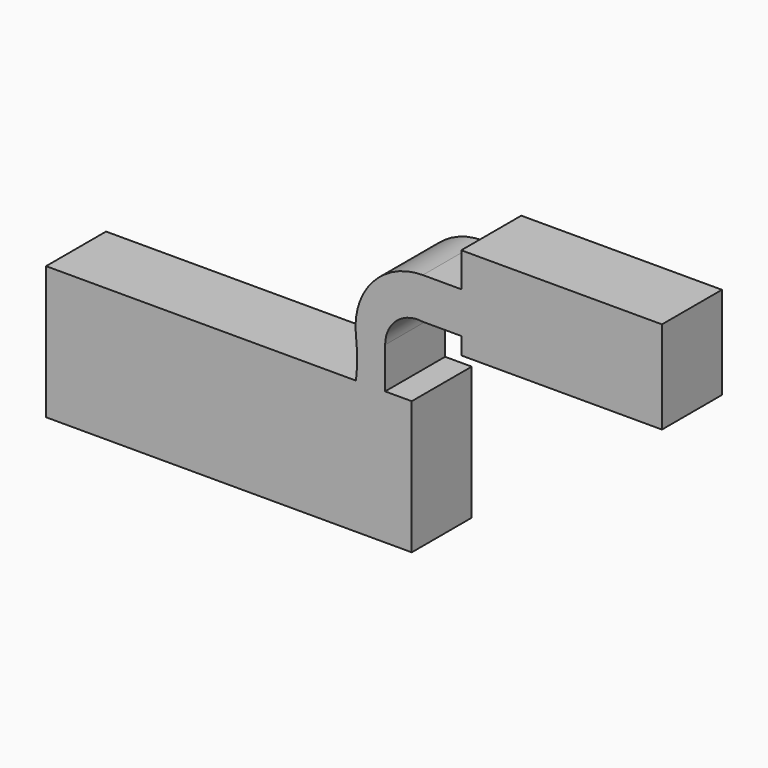
from build123d import *

# Parameters (mm, degrees)
F1_DEPTH = 25.4


with BuildPart() as f1:
    # F0 (on Front) → F1 (new body)
    with BuildSketch(Plane.XZ):
        Polygon((-61.955582, 22.545075), (-61.955582, -22.545075), (61.955582, -22.545075), (61.955582, 22.545075), (52.9394, 22.545075), (43.065205, 22.545075), align=None)
        with BuildLine():
            ThreePointArc((43.065205, 35.845976), (43.466106, 29.195526), (43.065205, 22.545075))
            Line((43.065205, 22.545075), (52.9394, 22.545075))
            Line((52.9394, 22.545075), (52.9394, 36.426857))
            ThreePointArc((52.9394, 36.426857), (56.803083, 44.869262), (65.717764, 47.463622))
            Line((65.717764, 47.463622), (78.743011, 47.463622))
            Line((78.743011, 47.463622), (78.743011, 61.404802))
            Line((78.743011, 61.404802), (65.717764, 61.404802))
            ThreePointArc((65.717764, 61.404802), (48.641523, 53.721528), (43.065205, 35.845976))
        make_face()
        Polygon((78.743011, 73.039982), (78.743011, 61.404802), (78.743011, 47.463622), (78.743011, 41.654799), (146.744236, 41.654799), (146.744236, 73.039982), align=None)
    extrude(amount=F1_DEPTH)


solid = f1.part
